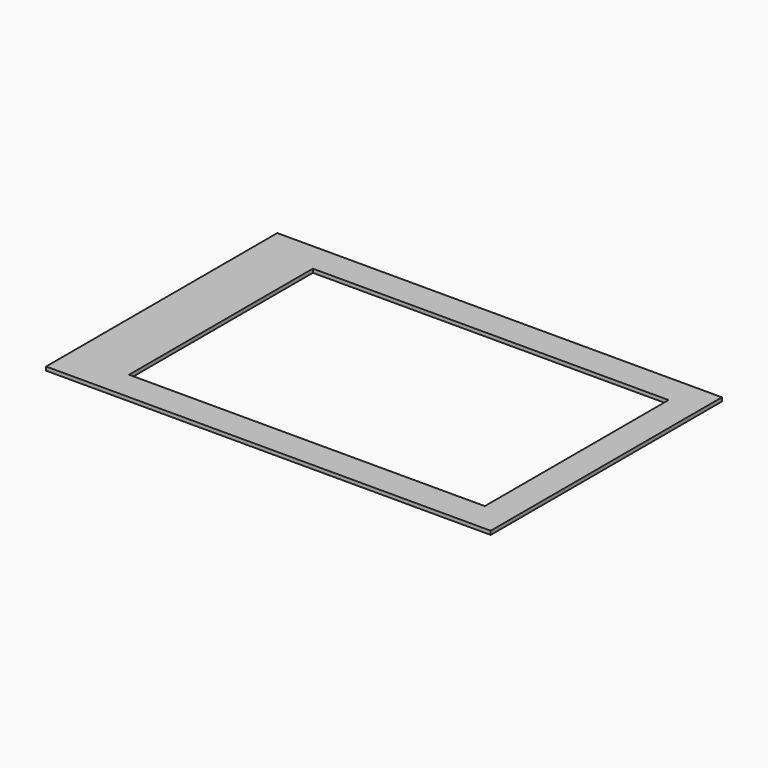
from build123d import *

# Parameters (mm, degrees)
SKETCH_W   = 762
SKETCH_H   = 495.3
SKETCH_W_2 = 609.6
SKETCH_H_2 = 393.7
PAD_DEPTH  = 6.35


with BuildPart() as part:
    # Sketch → Pad (new body)
    with BuildSketch(Plane.XY.offset(6.35)):
        Rectangle(SKETCH_W, SKETCH_H)
        with Locations((25.4, 0)):
            Rectangle(SKETCH_W_2, SKETCH_H_2, mode=Mode.SUBTRACT)
    extrude(amount=PAD_DEPTH)


solid = part.part
